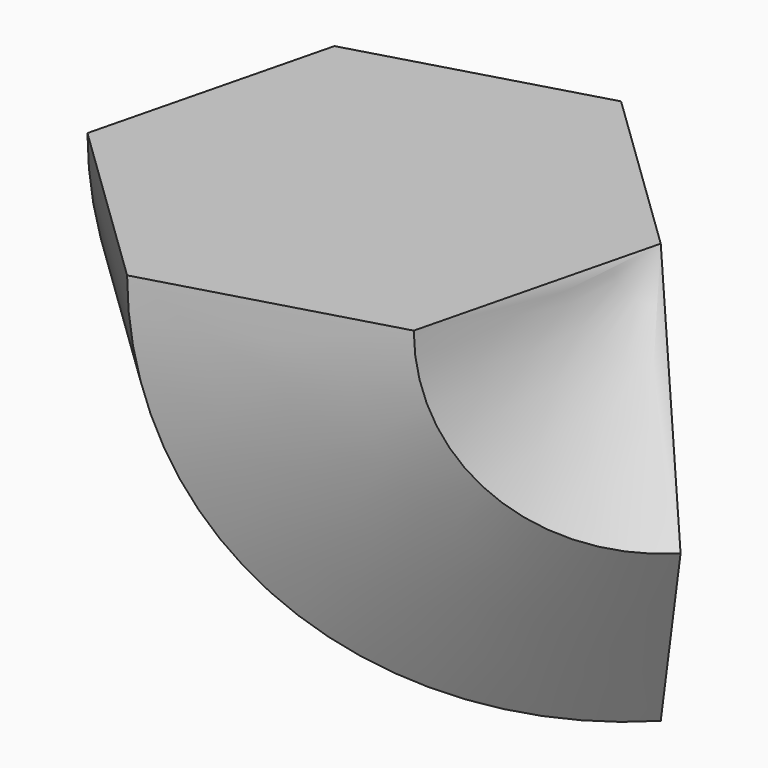
from build123d import *

# Parameters (mm, degrees)
F1_ANGLE = 90


with BuildPart() as f1:
    # F0 (on Top) → F1 (revolve)
    with BuildSketch(Plane.XY):
        Polygon((33.6058638911, 9.6329529031), (8.460550018, 33.9200082974), (-25.1453138731, 24.2870553943), (-33.6058638911, -9.6329529031), (-8.460550018, -33.9200082974), (25.1453138731, -24.2870553943), align=None)
    revolve(axis=Axis((21.0332069546, 21.7764806002, 0), (0.7192753607, -0.6947250934, 0)), revolution_arc=F1_ANGLE)


solid = f1.part
